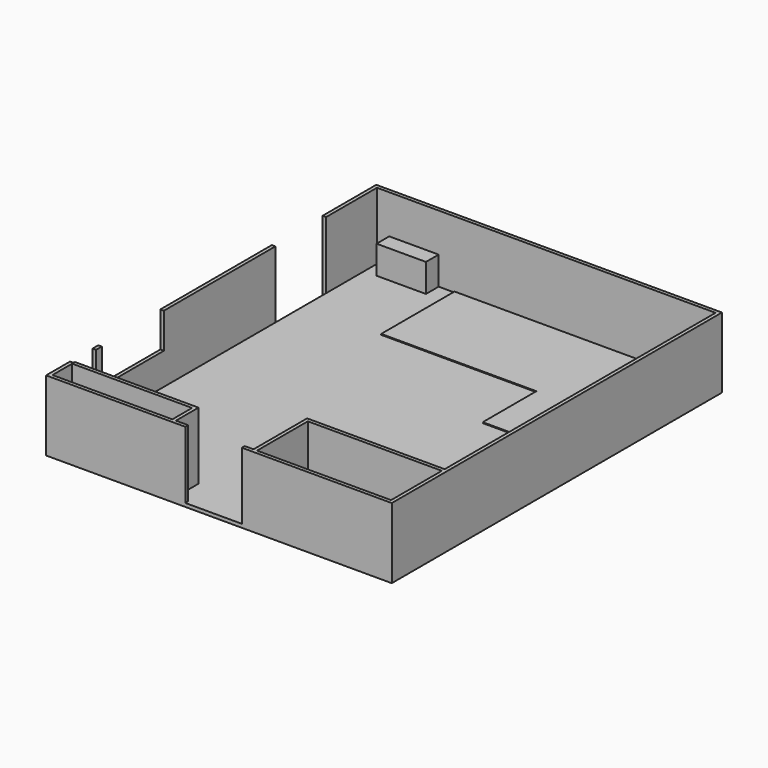
from build123d import *

# Parameters (mm, degrees)
F1_DEPTH  = 100
F2_W      = 100
F2_H      = 100
F3_DEPTH  = 1900
F5_DEPTH  = 1900
F6_W      = 1800
F6_H      = 2000
F6_W_2    = 800
F6_W_3    = 2200
F6_H_2    = 1000
F7_DEPTH  = 100
F8_W      = 1600
F8_H      = 2000
F9_DEPTH  = 100
F10_W     = 4400
F10_H     = 2600
F11_DEPTH = 25
F12_W     = 1400
F12_H     = 450
F13_DEPTH = 800


with BuildPart() as f1:
    # F0 (on Top) → F1 (new body)
    with BuildSketch(Plane.XY):
        Polygon((-4837.257402, 1697.169105), (-14637.257402, 1697.169105), (-14637.257402, -9202.830895), (-14637.257402, -10002.830895), (-11137.257402, -10002.830895), (-8937.257402, -10002.830895), (-4837.257402, -10002.830895), (-4837.257402, -8102.830895), align=None)
    extrude(amount=F1_DEPTH)

    # F2 (on face) → F3 (join)
    with BuildSketch(Plane.XY.offset(100)):
        Polygon((-14637.257402, -9902.830895), (-14637.257402, -10002.830895), (-10890.719414, -10002.830895), (-8666.100502, -10002.830895), (-4937.257402, -10002.830895), (-4937.257402, -9902.830895), (-9037.257402, -9902.830895), (-11037.257402, -9902.830895), (-14537.257402, -9902.830895), align=None)
        Polygon((-14637.257402, -9155.583382), (-14637.257402, -9902.830895), (-14537.257402, -9902.830895), (-14537.257402, -8902.830895), (-14537.257402, 1597.169105), (-14637.257402, 1597.169105), (-14637.257402, -8609.960254), align=None)
        with Locations((-4887.257402, -9952.830895)):
            Rectangle(F2_W, F2_H)
        Polygon((-4937.257402, -8002.830895), (-4937.257402, -9902.830895), (-4837.257402, -9902.830895), (-4837.257402, -7690.302372), (-4837.257402, -7344.679244), (-4837.257402, 1597.169105), (-4937.257402, 1597.169105), align=None)
        Polygon((-14637.257402, 1697.169105), (-14637.257402, 1597.169105), (-14537.257402, 1597.169105), (-5037.257402, 1597.169105), (-4937.257402, 1597.169105), (-4837.257402, 1597.169105), (-4837.257402, 1697.169105), align=None)
    extrude(amount=F3_DEPTH)

    # F4 (on face) → F5 (join)
    with BuildSketch(Plane.XY.offset(100)):
        Polygon((-11137.257402, -9902.830895), (-11037.257402, -9902.830895), (-11037.257402, -9102.830895), (-11137.257402, -9102.830895), (-14537.257402, -9102.830895), (-14537.257402, -9202.830895), (-11137.257402, -9202.830895), align=None)
        Polygon((-8737.257402, -8002.830895), (-8837.257402, -8002.830895), (-8837.257402, -8102.830895), (-8837.257402, -9902.830895), (-8737.257402, -9902.830895), (-8737.257402, -8102.830895), (-4937.257402, -8102.830895), (-4937.257402, -8002.830895), align=None)
    extrude(amount=F5_DEPTH)

    # F6 (on face) → F7 (cut)
    with BuildSketch(Plane(origin=(-14637.257402, 0, 0), x_dir=(0, -1, 0), z_dir=(-1, 0, 0))):
        with Locations((1102.830895, 1000)):
            Rectangle(F6_W, F6_H)
        with Locations((8752.830895, 1000)):
            Rectangle(F6_W_2, F6_H)
        with Locations((7052.830895, 1500)):
            Rectangle(F6_W_3, F6_H_2)
    extrude(amount=-F7_DEPTH, mode=Mode.SUBTRACT)

    # F8 (on face) → F9 (cut)
    with BuildSketch(Plane(origin=(0, -9902.830895, 0), x_dir=(-1, 0, 0), z_dir=(0, 1, 0))):
        with Locations((9887.257402, 1100)):
            Rectangle(F8_W, F8_H)
    extrude(amount=-F9_DEPTH, mode=Mode.SUBTRACT)

    # F10 (on face) → F11 (join)
    with BuildSketch(Plane.XY.offset(100)):
        with Locations((-10137.257402, 297.169105)):
            Rectangle(F10_W, F10_H)
        Polygon((-4937.257402, 1597.169105), (-7937.257402, 1597.169105), (-7937.257402, -1002.830895), (-7937.257402, -2902.830895), (-4937.257402, -2902.830895), align=None)
    extrude(amount=F11_DEPTH)

    # F12 (on face) → F13 (join)
    with BuildSketch(Plane.XY.offset(100)):
        with Locations((-13488.246727, 1372.169105)):
            Rectangle(F12_W, F12_H)
    extrude(amount=F13_DEPTH)


solid = f1.part
